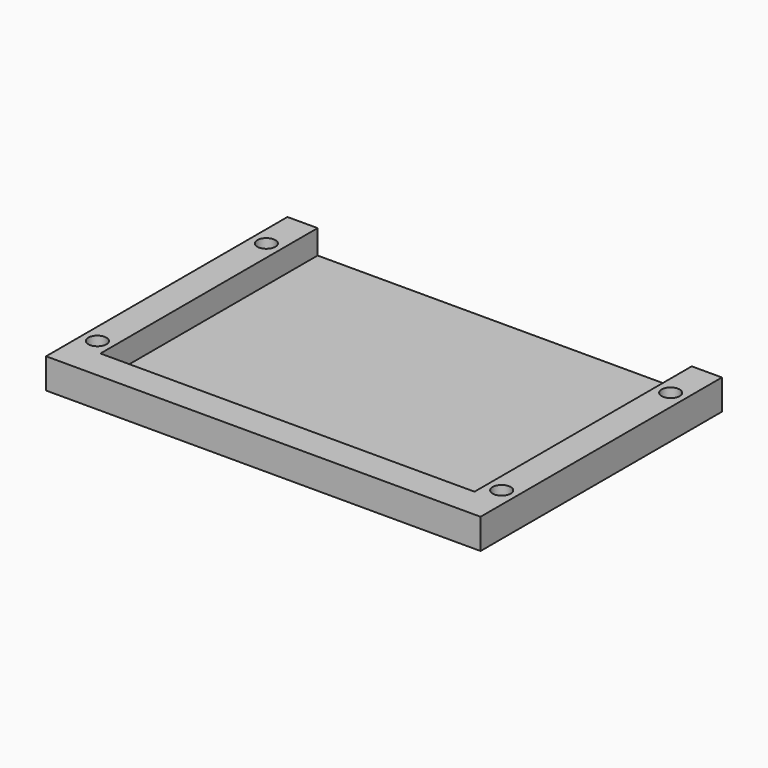
from build123d import *

# Parameters (mm, degrees)
F1_DEPTH = 1
F0_R     = 1.5
F2_DEPTH = 5


with BuildPart() as f1:
    # F0 (on Top) → F1 (new body)
    with BuildSketch(Plane.XY):
        Polygon((0, 25), (-31, 25), (-31, 20), (-31, 0), (-31, -20), (0, -20), (31, -20), (31, 0), (31, 20), (31, 25), align=None)
    extrude(amount=F1_DEPTH)

    # F0 (on Top) → F2 (join)
    with BuildSketch(Plane.XY):
        Polygon((-36, 25), (-36, 0), (-36, -25), (0, -25), (36, -25), (36, 0), (36, 25), (31, 25), (31, 20), (31, 0), (31, -20), (0, -20), (-31, -20), (-31, 0), (-31, 20), (-31, 25), align=None)
        with Locations((-33.5, -17.5)):
            Circle(F0_R, mode=Mode.SUBTRACT)
        with Locations((33.5, -17.5)):
            Circle(F0_R, mode=Mode.SUBTRACT)
        with Locations((-33.5, 17.5)):
            Circle(F0_R, mode=Mode.SUBTRACT)
        with Locations((33.5, 17.5)):
            Circle(F0_R, mode=Mode.SUBTRACT)
    extrude(amount=F2_DEPTH)


solid = f1.part
